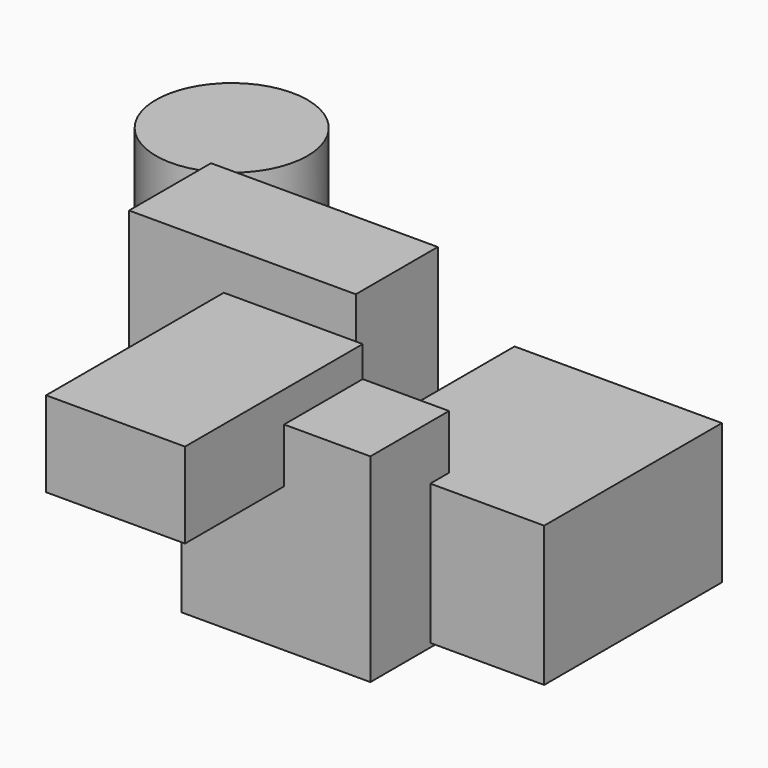
from build123d import *

# Parameters (mm, degrees)
F0_W     = 97.668778
F0_H     = 102.708745
F1_DEPTH = 50.8
F2_W     = 71.808368
F2_H     = 44.105816
F4_DEPTH = 114.808
F3_W     = 117.202788
F3_H     = 52.951805
F5_DEPTH = 76.2
F6_W     = 114.829555
F6_H     = 72.480843
F7_DEPTH = 107.188
F8_R     = 39.1831
F9_DEPTH = 70.866


with BuildPart() as f1:
    # F0 (on Front) → F1 (new body)
    with BuildSketch(Plane.XZ):
        with Locations((-0.50869, -3.707687)):
            Rectangle(F0_W, F0_H)
    extrude(amount=F1_DEPTH)

    # F2 (on Front) → F4 (join)
    with BuildSketch(Plane.XZ):
        with Locations((-32.18241, 41.546328)):
            Rectangle(F2_W, F2_H)
    extrude(amount=F4_DEPTH)


with BuildPart() as f5:
    # F3 (on Top) → F5 (new body)
    with BuildSketch(Plane.XY):
        with Locations((-69.115445, 39.801325)):
            Rectangle(F3_W, F3_H)
    extrude(amount=F5_DEPTH)


with BuildPart() as f7:
    # F6 (on Right) → F7 (new body)
    with BuildSketch(Plane.YZ):
        with Locations((45.305155, -16.70282)):
            Rectangle(F6_W, F6_H)
    extrude(amount=F7_DEPTH)


with BuildPart() as f9:
    # F8 (on Top) → F9 (new body)
    with BuildSketch(Plane.XY):
        with Locations((-146.878064, 103.613123)):
            Circle(F8_R)
    extrude(amount=F9_DEPTH)


solid = Compound([f1.part, f5.part, f7.part, f9.part])
